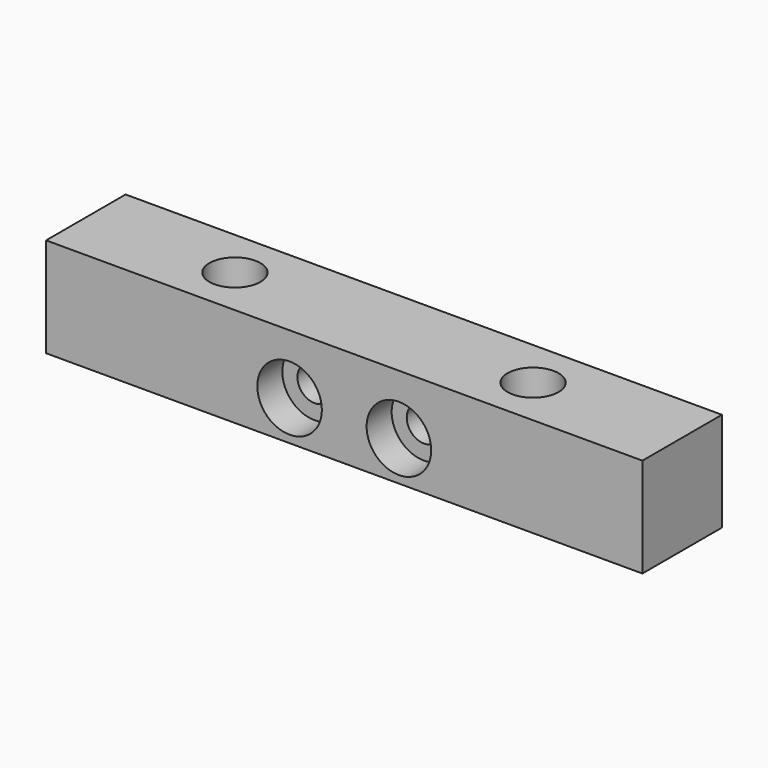
from build123d import *

# Parameters (mm, degrees)
F0_W           = 76.2
F0_H           = 12.7
F1_DEPTH       = 12.7
F2_D           = 6.5278
F3_D           = 6.5278
F5_D           = 4.4
F5_CBORE_D     = 8.25
F5_CBORE_DEPTH = 4
F6_D           = 4.4
F6_CBORE_D     = 8.25
F6_CBORE_DEPTH = 4


with BuildPart() as f1:
    # F0 (on Top) → F1 (new body)
    with BuildSketch(Plane.XY):
        Rectangle(F0_W, F0_H)
    extrude(amount=F1_DEPTH)

    # F2 (through all)
    with Locations(Plane(origin=(0, 0, 0), x_dir=(1, 0, 0), z_dir=(0, 0, -1))):
        with Locations((-19.05, 0)):
            Hole(F2_D / 2)

    # F3 (through all)
    with Locations(Plane(origin=(0, 0, 0), x_dir=(1, 0, 0), z_dir=(0, 0, -1))):
        with Locations((19.05, 0)):
            Hole(F3_D / 2)

    # F5 (through all)
    with Locations(Plane.XZ.offset(6.35)):
        with Locations((-6.985, 5.08)):
            CounterBoreHole(F5_D / 2, F5_CBORE_D / 2, F5_CBORE_DEPTH)

    # F6 (through all)
    with Locations(Plane.XZ.offset(6.35)):
        with Locations((6.985, 5.08)):
            CounterBoreHole(F6_D / 2, F6_CBORE_D / 2, F6_CBORE_DEPTH)


solid = f1.part
